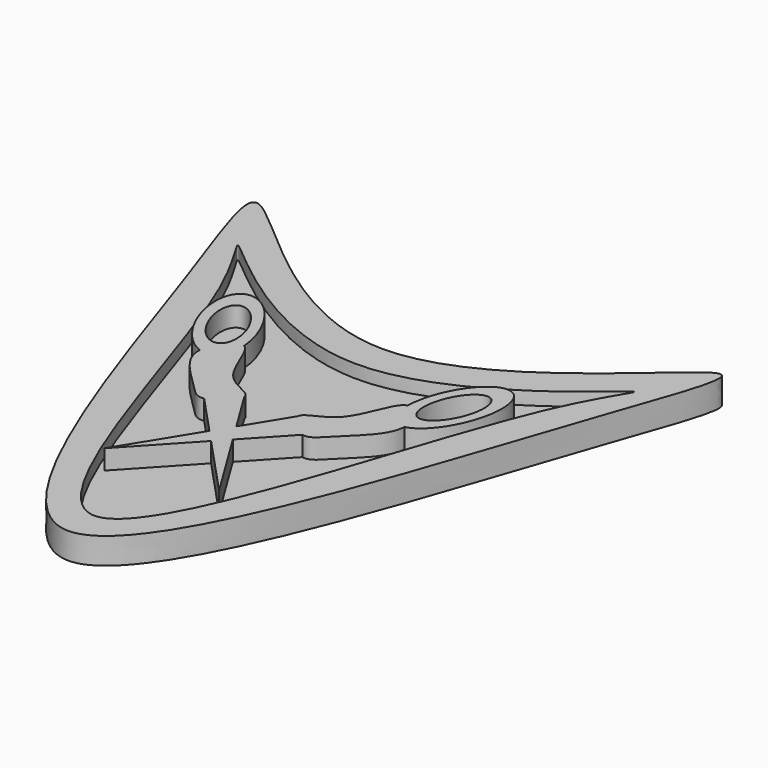
from build123d import *

# Parameters (mm, degrees)
F1_DEPTH = 2.54
F3_DEPTH = 1.27
F5_DEPTH = 1.905


with BuildPart() as f1:
    # F0 (on Top) → F1 (new body)
    with BuildSketch(Plane.XY):
        with BuildLine():
            add(Edge.make_bspline(
                [(-19.05, 0), (-14.0701532741, -14.4708520881), (0, -61.7291479119), (17.9701382761, -1.3717307537), (26.9168084968, 20.5117345686), (0, -11.9593012484), (-26.9168084968, 20.5117345686), (-21.8106419297, 8.0221025329), (-19.05, 0)],
                knots=[0, 0, 0, 0, 0.2146331294, 0.4292662587, 0.548250888, 0.7146331294, 0.8810153707, 1, 1, 1, 1], degree=3))
        make_face()
    extrude(amount=F1_DEPTH)

    # F2 (on face) → F3 (cut)
    with BuildSketch(Plane.XY.offset(2.54)):
        with BuildLine():
            add(Edge.make_bspline(
                [(0, -34.925), (5.5870096117, -34.925), (13.5774615524, -0.409014654), (22.9743111974, 10.5786818437), (0, -11.8944848933), (-22.9743111974, 10.5786818437), (-13.5774615524, -0.409014654), (-5.5870096117, -34.925), (0, -34.925)],
                knots=[0, 0, 0, 0, 0.229854977, 0.3287349181, 0.5, 0.6712650819, 0.770145023, 1, 1, 1, 1], degree=3))
        make_face()
    extrude(amount=-F3_DEPTH, mode=Mode.SUBTRACT)

    # F4 (on face) → F5 (join)
    with BuildSketch(Plane.XY.offset(1.27)):
        with BuildLine():
            add(Edge.make_bspline(
                [(-7.7898626035, -7.0782146915), (-8.3309765842, 1.7222134001), (-13.0599721771, -0.4718035014)],
                knots=[4.0483481796, 4.0483481796, 4.0483481796, 6.2831853072, 6.2831853072, 6.2831853072], degree=2, weights=[1, 0.4380045439, 1]))
            add(Edge.make_bspline(
                [(-13.0599721771, -0.4718035014), (-14.9043403671, -1.3274978876), (-13.6383002443, -5.1140853388), (-12.3722601214, -8.90067279), (-9.9734938322, -9.703122445)],
                knots=[0, 0, 0, 1.3500584495, 1.3500584495, 2.7001168989, 2.7001168989, 2.7001168989], degree=2, weights=[1, 0.7806886883, 1, 0.7806886883, 1]))
            add(Edge.make_bspline(
                [(-9.9734938322, -9.703122445), (-9.8991961248, -8.3194639552), (-8.7564273628, -6.8336320457), (-7.9683034295, -7.0079829971)],
                knots=[0.8456697819, 0.8456697819, 0.8456697819, 0.8456697819, 1, 1, 1, 1], degree=3))
            add(Edge.make_bspline(
                [(-7.9683034295, -7.0079829971), (-7.906770774, -7.0215954209), (-7.8473999205, -7.0453277911), (-7.7898626035, -7.0782146915)],
                knots=[0, 0, 0, 0, 0.0120493082, 0.0120493082, 0.0120493082, 0.0120493082], degree=3))
        make_face()
        with BuildLine():
            add(Edge.make_bspline(
                [(-12.2433689346, -2.1930276866), (-14.7435602981, -3.3373667517), (-11.5114112144, -7.0956556893), (-8.2792621308, -10.8539446269), (-9.011219851, -5.9513166241), (-9.7431775711, -1.0486886214), (-12.2433689346, -2.1930276866)],
                knots=[0, 0, 0, 2.0943951024, 2.0943951024, 4.1887902048, 4.1887902048, 6.2831853072, 6.2831853072, 6.2831853072], degree=2, weights=[1, 0.5, 1, 0.5, 1, 0.5, 1]))
        make_face(mode=Mode.SUBTRACT)
        with BuildLine():
            add(Edge.make_bspline(
                [(-9.9734938322, -9.703122445), (-9.8991961248, -8.3194639552), (-8.7564273628, -6.8336320457), (-7.9683034295, -7.0079829971)],
                knots=[0.8456697819, 0.8456697819, 0.8456697819, 0.8456697819, 1, 1, 1, 1], degree=3))
            add(Edge.make_bspline(
                [(-9.9734938322, -9.703122445), (-7.5792162044, -10.5040705262), (-7.7898626035, -7.0782146915)],
                knots=[2.7001168989, 2.7001168989, 2.7001168989, 4.0483481796, 4.0483481796, 4.0483481796], degree=2, weights=[1, 0.7812592798, 1]))
            add(Edge.make_bspline(
                [(-7.9683034295, -7.0079829971), (-7.906770774, -7.0215954209), (-7.8473999205, -7.0453277911), (-7.7898626035, -7.0782146915)],
                knots=[0, 0, 0, 0, 0.0120493082, 0.0120493082, 0.0120493082, 0.0120493082], degree=3))
        make_face()
        with BuildLine():
            add(Edge.make_bspline(
                [(-9.9734938322, -9.703122445), (-7.5792162044, -10.5040705262), (-7.7898626035, -7.0782146915)],
                knots=[2.7001168989, 2.7001168989, 2.7001168989, 4.0483481796, 4.0483481796, 4.0483481796], degree=2, weights=[1, 0.7812592798, 1]))
            add(Edge.make_bspline(
                [(-4.7562236544, -15.7083748514), (-5.5851788432, -15.8814690553), (-6.7888453727, -14.1610400151), (-10.0234558266, -11.5952872159), (-9.9761981526, -9.7534854509), (-9.9734938322, -9.703122445)],
                knots=[0.5037098723, 0.5037098723, 0.5037098723, 0.5037098723, 0.6396856353, 0.8400524033, 0.8456697819, 0.8456697819, 0.8456697819, 0.8456697819], degree=3))
            add(Edge.make_bspline(
                [(-2.5751624649, -13.5726184043), (-2.515501063, -14.2739183786), (-3.8434138286, -15.5177709535), (-4.7562236544, -15.7083748514)],
                knots=[0.3539792064, 0.3539792064, 0.3539792064, 0.3539792064, 0.5037098723, 0.5037098723, 0.5037098723, 0.5037098723], degree=3))
            add(Edge.make_bspline(
                [(-7.7898626035, -7.0782146915), (-6.901380141, -7.5860491848), (-6.0720709021, -12.5308311581), (-2.6372686686, -12.842580595), (-2.5751624649, -13.5726184043)],
                knots=[0.0120493082, 0.0120493082, 0.0120493082, 0.0120493082, 0.1981128847, 0.3539792064, 0.3539792064, 0.3539792064, 0.3539792064], degree=3))
        make_face()
        with BuildLine():
            add(Edge.make_bspline(
                [(-2.5751624649, -13.5726184043), (-2.515501063, -14.2739183786), (-3.8434138286, -15.5177709535), (-4.7562236544, -15.7083748514)],
                knots=[0.3539792064, 0.3539792064, 0.3539792064, 0.3539792064, 0.5037098723, 0.5037098723, 0.5037098723, 0.5037098723], degree=3))
            Line((-4.7562236544, -15.7083748514), (-1.1323174561, -19.6021754251))
            Line((-1.1323174561, -19.6021754251), (0, -17.7606623723))
            Line((0, -17.7606623723), (-2.5751624649, -13.5726184043))
        make_face()
        Polygon((0, -17.7606623723), (-1.1323174561, -19.6021754251), (0, -20.8188234616), (1.1323174561, -19.6021754251), align=None)
        Polygon((0, -20.8188234616), (-1.1323174561, -19.6021754251), (-5.5416915566, -26.7732385546), align=None)
        with BuildLine():
            Line((2.5751624649, -13.5726184043), (0, -17.7606623723))
            Line((0, -17.7606623723), (1.1323174561, -19.6021754251))
            Line((1.1323174561, -19.6021754251), (4.7562236544, -15.7083748514))
            add(Edge.make_bspline(
                [(2.5751624649, -13.5726184043), (2.515501063, -14.2739183786), (3.8434138286, -15.5177709535), (4.7562236544, -15.7083748514)],
                knots=[0.3539792064, 0.3539792064, 0.3539792064, 0.3539792064, 0.5037098723, 0.5037098723, 0.5037098723, 0.5037098723], degree=3))
        make_face()
        Polygon((1.1323174561, -19.6021754251), (0, -20.8188234616), (5.5416915566, -26.7732385546), align=None)
        with BuildLine():
            add(Edge.make_bspline(
                [(7.9683034295, -7.0079829971), (6.9565929045, -7.2317963912), (6.1931103047, -12.5198453828), (2.6372686686, -12.842580595), (2.5751624649, -13.5726184043)],
                knots=[0, 0, 0, 0, 0.1981128847, 0.3539792064, 0.3539792064, 0.3539792064, 0.3539792064], degree=3))
            add(Edge.make_bspline(
                [(2.5751624649, -13.5726184043), (2.515501063, -14.2739183786), (3.8434138286, -15.5177709535), (4.7562236544, -15.7083748514)],
                knots=[0.3539792064, 0.3539792064, 0.3539792064, 0.3539792064, 0.5037098723, 0.5037098723, 0.5037098723, 0.5037098723], degree=3))
            add(Edge.make_bspline(
                [(4.7562236544, -15.7083748514), (5.5851788432, -15.8814690553), (6.7837981395, -14.1682541449), (9.9436744009, -11.65858478), (9.9768645223, -9.8913447465)],
                knots=[0.5037098723, 0.5037098723, 0.5037098723, 0.5037098723, 0.6396856353, 0.8386420465, 0.8386420465, 0.8386420465, 0.8386420465], degree=3))
            add(Edge.make_bspline(
                [(7.9683034295, -7.0079829971), (7.8747866442, -10.347261902), (9.9768645223, -9.8913447465)],
                knots=[2.1607294795, 2.1607294795, 2.1607294795, 3.4482789592, 3.4482789592, 3.4482789592], degree=2, weights=[1, 0.7998357914, 1]))
        make_face()
        with BuildLine():
            add(Edge.make_bspline(
                [(9.9768645223, -9.8913447465), (9.9770997995, -9.8788171839), (9.9934171995, -8.4439579568), (8.7851138418, -6.8272859437), (7.9683034295, -7.0079829971)],
                knots=[0.8386420465, 0.8386420465, 0.8386420465, 0.8386420465, 0.8400524033, 1, 1, 1, 1], degree=3))
            add(Edge.make_bspline(
                [(7.9683034295, -7.0079829971), (7.8747866442, -10.347261902), (9.9768645223, -9.8913447465)],
                knots=[2.1607294795, 2.1607294795, 2.1607294795, 3.4482789592, 3.4482789592, 3.4482789592], degree=2, weights=[1, 0.7998357914, 1]))
        make_face()
        with BuildLine():
            add(Edge.make_bspline(
                [(12.6687123688, -0.3097383824), (8.2016955222, 1.3259357594), (7.9683034295, -7.0079829971)],
                knots=[0, 0, 0, 2.1607294795, 2.1607294795, 2.1607294795], degree=2, weights=[1, 0.4710066478, 1]))
            add(Edge.make_bspline(
                [(9.9768645223, -9.8913447465), (9.9770997995, -9.8788171839), (9.9934171995, -8.4439579568), (8.7851138418, -6.8272859437), (7.9683034295, -7.0079829971)],
                knots=[0.8386420465, 0.8386420465, 0.8386420465, 0.8386420465, 0.8400524033, 1, 1, 1, 1], degree=3))
            add(Edge.make_bspline(
                [(9.9768645223, -9.8913447465), (12.3783577201, -9.3704877607), (13.5459415053, -5.2144845744), (14.7135252905, -1.0584813882), (12.6687123688, -0.3097383824)],
                knots=[3.4482789592, 3.4482789592, 3.4482789592, 4.8657321332, 4.8657321332, 6.2831853072, 6.2831853072, 6.2831853072], degree=2, weights=[1, 0.7591913145, 1, 0.7591913145, 1]))
        make_face()
        with BuildLine():
            add(Edge.make_bspline(
                [(12.0290487658, -2.1042533659), (9.4519765855, -1.1455210115), (9.0799395269, -6.0885071398), (8.7079024684, -11.0314932681), (11.6570117072, -7.0472394942), (14.6061209461, -3.0629857204), (12.0290487658, -2.1042533659)],
                knots=[0, 0, 0, 2.0943951024, 2.0943951024, 4.1887902048, 4.1887902048, 6.2831853072, 6.2831853072, 6.2831853072], degree=2, weights=[1, 0.5, 1, 0.5, 1, 0.5, 1]))
        make_face(mode=Mode.SUBTRACT)
    extrude(amount=F5_DEPTH)


solid = f1.part
